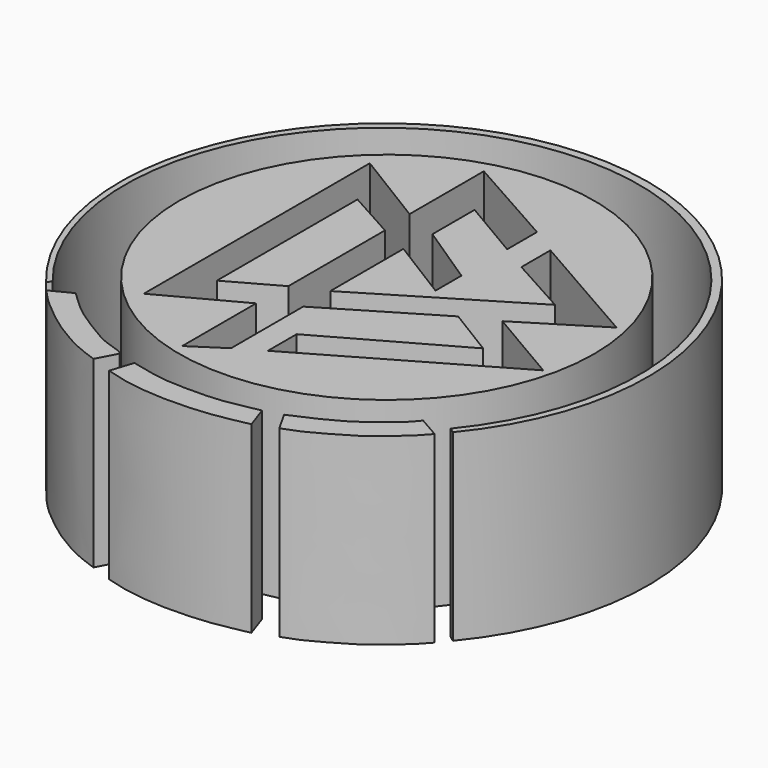
from build123d import *

# Parameters (mm, degrees)
F1_DEPTH = 25
F0_R     = 28.2451960737


with BuildPart() as f1:
    # F0 (on Top) → F1 (new body)
    with BuildSketch(Plane.XY):
        with BuildLine():
            ThreePointArc((10.0652156398, 15.2148902416), (37.2197382999, 72.371182903), (64.2907321453, 15.1752810925))
            Line((64.2907321453, 15.1752810925), (64.9820417166, 14.65836633))
            ThreePointArc((64.9820417166, 14.65836633), (37.2684516734, 73.5063348544), (9.6539957449, 14.6117825061))
            Line((9.6539957449, 14.6117825061), (10.0652156398, 15.2148902416))
        make_face()
    extrude(amount=F1_DEPTH)


with BuildPart() as f1b:
    # F0 (on Top) → F1, piece 2 (new body)
    with BuildSketch(Plane.XY):
        with BuildLine():
            Line((13.6678591371, 14.6117825061), (10.8448099345, 13.1608117372))
            add(Edge.make_bspline(
                [(10.8448099345, 13.1608117372), (11.4124021823, 12.5396567352), (12.6007121946, 11.2392078465), (15.0032267377, 9.2579629819), (17.1451019651, 7.6340912256), (19.428292046, 6.2573238199), (21.6271182234, 5.0363501979), (23.5758351515, 4.3494411924), (24.6071796864, 3.9858995005)],
                knots=[0, 0, 0, 0, 0.1610155293, 0.3371017951, 0.5020622334, 0.6636696995, 0.8219995874, 1, 1, 1, 1], degree=3))
            Line((24.6071796864, 3.9858995005), (25.9481277317, 6.5266448073))
            add(Edge.make_bspline(
                [(13.6678591371, 14.6117825061), (14.3884881574, 13.9149575941), (15.7909577994, 12.5588148949), (17.8685251625, 10.9291328523), (20.5132963021, 9.319112071), (23.0099204009, 7.7247989441), (26.1344995918, 7.0087116568), (25.9844843934, 6.6206844405), (25.9481277317, 6.5266448073)],
                knots=[0, 0, 0, 0, 0.1888843352, 0.3676018292, 0.5585910855, 0.7588569617, 0.9415582157, 1, 1, 1, 1], degree=3))
        make_face()
    extrude(amount=F1_DEPTH)


with BuildPart() as f1c:
    # F0 (on Top) → F1, piece 3 (new body)
    with BuildSketch(Plane.XY):
        with BuildLine():
            add(Edge.make_bspline(
                [(28.5947360098, 5.9620342217), (29.4912759142, 5.7383407517), (31.305630172, 5.2856456762), (34.2319380603, 4.8214984829), (37.2839752571, 4.8322950748), (40.9171585122, 4.8487140913), (43.9625783196, 5.503737358), (45.3885417751, 5.7715394441), (46.027071774, 5.8914581314)],
                knots=[0, 0, 0, 0, 0.1630405109, 0.3299498927, 0.5009869385, 0.6880337751, 0.8603051204, 1, 1, 1, 1], degree=3))
            Line((28.5947360098, 5.9620342217), (27.6066698134, 2.8919673059))
            add(Edge.make_bspline(
                [(27.6066698134, 2.8919673059), (28.3812128193, 2.6584458031), (30.0886550938, 2.1436590411), (33.8166758875, 1.5757971002), (37.3314106305, 1.4665884812), (41.4667517013, 1.6484738587), (44.397712474, 2.1672162978), (46.2273883056, 2.5356053666), (47.1210032701, 2.7155268472)],
                knots=[0, 0, 0, 0, 0.147535907, 0.3252357101, 0.5011142734, 0.6878164675, 0.8475293429, 1, 1, 1, 1], degree=3))
            Line((47.1210032701, 2.7155268472), (46.027071774, 5.8914581314))
        make_face()
    extrude(amount=F1_DEPTH)


with BuildPart() as f1d:
    # F0 (on Top) → F1, piece 4 (new body)
    with BuildSketch(Plane.XY):
        with BuildLine():
            add(Edge.make_bspline(
                [(48.4619513154, 6.5972208977), (49.2744350434, 6.9403561406), (50.977210422, 7.6594871498), (53.9734735437, 9.1603234858), (56.3816162988, 10.6712369931), (59.4208437884, 13.0722754418), (60.4178294868, 14.2680317543), (60.8480833471, 14.7840660065)],
                knots=[0, 0, 0, 0, 0.1917479065, 0.40185865, 0.6015916235, 0.8280649941, 1, 1, 1, 1], degree=3))
            Line((48.4619513154, 6.5972208977), (50.0146299601, 3.844747087))
            add(Edge.make_bspline(
                [(50.0146299601, 3.844747087), (50.8392764991, 4.1308659032), (52.5800805539, 4.7558414675), (55.6238472648, 6.5356087292), (58.4369553504, 8.1258007197), (60.3524697779, 9.9369726466), (62.0640048338, 11.2372649905), (63.1675190527, 12.4783636747), (63.7417137623, 13.1255239248)],
                knots=[0, 0, 0, 0, 0.1643419041, 0.3526823507, 0.5340577326, 0.6949039832, 0.8409904654, 1, 1, 1, 1], degree=3))
            Line((63.7417137623, 13.1255239248), (60.8480833471, 14.7840660065))
        make_face()
    extrude(amount=F1_DEPTH)


with BuildPart() as f1e:
    # F0 (on Top) → F1, piece 5 (new body)
    with BuildSketch(Plane.XY):
        Polygon((30.3292386234, 46.4350841939), (23.5996749252, 50.1737296581), (23.5996749252, 26.2463930994), (30.3292386234, 29.9850385636), align=None)
    extrude(amount=F1_DEPTH)


with BuildPart() as f1f:
    # F0 (on Top) → F1, piece 6 (new body)
    with BuildSketch(Plane.XY):
        with Locations((37.2247286141, 38.1199643016)):
            Circle(F0_R)
        Polygon((63.528418541, 44.3414412439), (53.1349815428, 37.9109680653), (63.6031925678, 31.7795909941), (37.9261896014, 17.0164387673), (37.9261896014, 21.9077505171), (55.4517167102, 31.7408069698), (48.7780049443, 35.8296297491), (34.5012918115, 27.3036640137), (34.5012918115, 15.0304567069), (30.1276370883, 12.1763702482), (30.1276370883, 24.7620418668), (19.4123908877, 19.0333016217), (19.4123908877, 57.501476258), (30.0301462412, 50.9962327778), (30.0301462412, 63.6328607798), (43.1901812553, 56.230340153), (43.1901812553, 51.1457808316), (34.8156131804, 56.0807920992), (34.8156131804, 48.9025898278), (43.1901812553, 43.3693937957), (43.1901812553, 38.9577895403), (34.5165207982, 44.3414412439), (34.5165207982, 31.8984873593), (55.1538541913, 44.3414412439), (46.9288304448, 48.9025898278), (46.9288304448, 53.8376048207), align=None, mode=Mode.SUBTRACT)
    extrude(amount=F1_DEPTH)


solid = Compound([f1.part, f1b.part, f1c.part, f1d.part, f1e.part, f1f.part])
